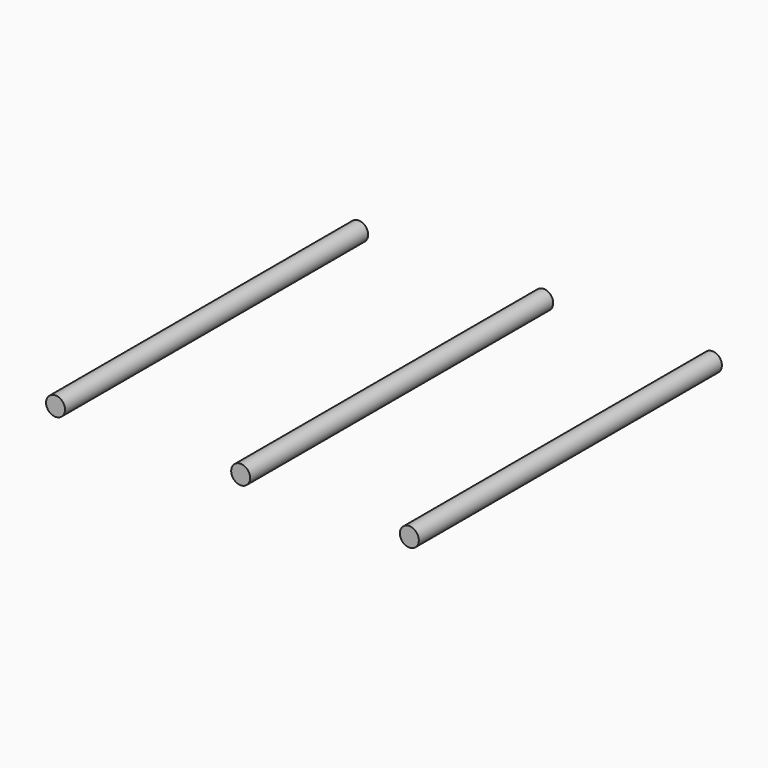
from build123d import *

# Parameters (mm, degrees)
F0_R     = 0.635
F1_DEPTH = 25.4


with BuildPart() as f1:
    # F0 (on Front) → F1 (new body)
    with BuildSketch(Plane.XZ):
        with Locations((-0.659523, 0)):
            Circle(F0_R)
        with Locations((10.649065, 0)):
            Circle(F0_R)
        with Locations((-13.070963, 0)):
            Circle(F0_R)
    extrude(amount=F1_DEPTH)


solid = f1.part
